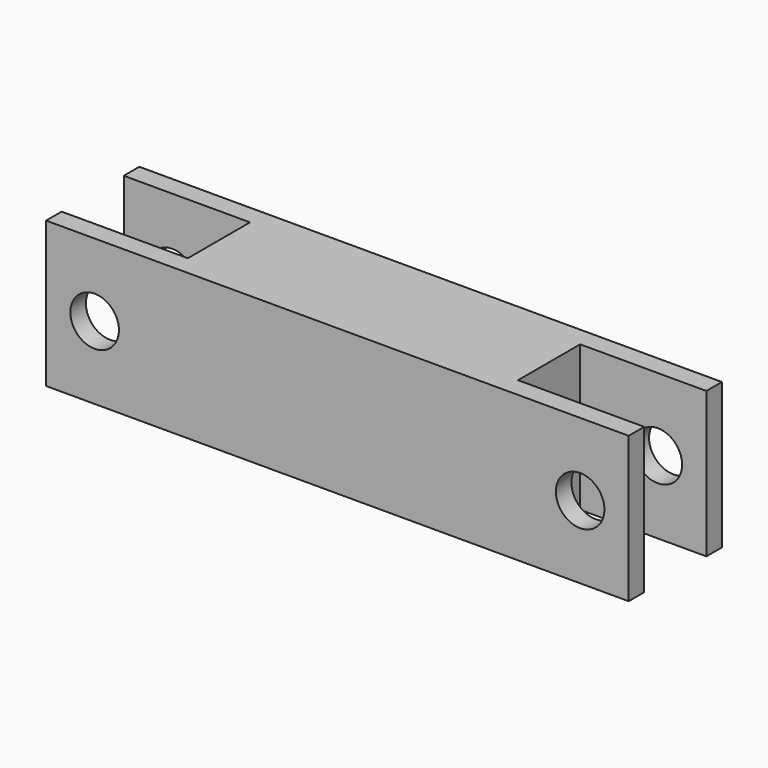
from build123d import *

# Parameters (mm, degrees)
F0_W     = 300
F0_H     = 150
F0_R     = 25
F1_DEPTH = 60
F2_W     = 130
F2_H     = 150
F2_R     = 25
F3_DEPTH = 40


with BuildPart() as f1:
    # F0 (on Front) → F1 (new body, symmetric)
    with BuildSketch(Plane.XZ):
        with Locations((-150, 0)):
            Rectangle(F0_W, F0_H)
        with Locations((-250, 0)):
            Circle(F0_R, mode=Mode.SUBTRACT)
    extrude(amount=F1_DEPTH, both=True)

    # F2 (on Front) → F3 (cut, symmetric)
    with BuildSketch(Plane.XZ):
        with Locations((-235, 0)):
            Rectangle(F2_W, F2_H)
        with Locations((-250, 0)):
            Circle(F2_R, mode=Mode.SUBTRACT)
    extrude(amount=F3_DEPTH, both=True, mode=Mode.SUBTRACT)

    # F4: F1 across face


with BuildPart() as f1_1:
    add(f1.part)
    add(f1.part.mirror(Plane.YZ))


solid = f1_1.part
